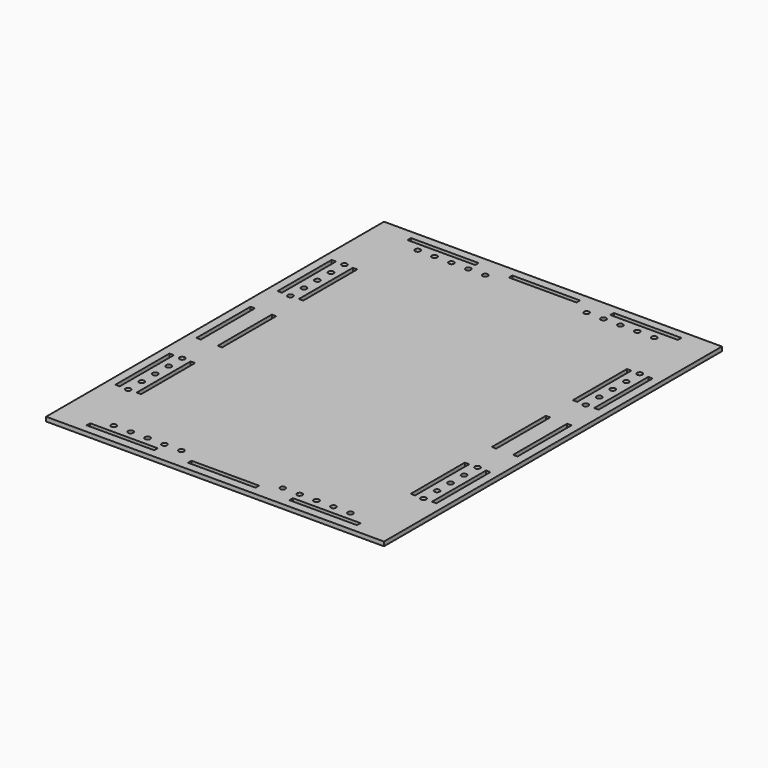
from build123d import *

# Parameters (mm, degrees)
F0_W     = 254
F0_H     = 317.5
F0_R     = 1.984375
F0_W_2   = 50.8
F0_H_2   = 3.302
F0_W_3   = 3.302
F0_H_3   = 50.8
F1_DEPTH = 3.175


with BuildPart() as f1:
    # F0 (on Top) → F1 (new body)
    with BuildSketch(Plane.XY):
        with Locations((3.424784, -8.443636)):
            Rectangle(F0_W, F0_H)
        with Locations((-85.475216, -151.191636)):
            Circle(F0_R, mode=Mode.SUBTRACT)
        with Locations((-72.775216, -159.192636)):
            Rectangle(F0_W_2, F0_H_2, mode=Mode.SUBTRACT)
        with Locations((-72.775216, -151.191636)):
            Circle(F0_R, mode=Mode.SUBTRACT)
        with Locations((-107.573216, -110.043636)):
            Circle(F0_R, mode=Mode.SUBTRACT)
        with Locations((-107.573216, -97.343636)):
            Circle(F0_R, mode=Mode.SUBTRACT)
        with Locations((-60.075216, -151.191636)):
            Circle(F0_R, mode=Mode.SUBTRACT)
        with Locations((-47.375216, -151.191636)):
            Circle(F0_R, mode=Mode.SUBTRACT)
        with Locations((-34.675216, -151.191636)):
            Circle(F0_R, mode=Mode.SUBTRACT)
        with Locations((-115.574216, -84.643636)):
            Rectangle(F0_W_3, F0_H_3, mode=Mode.SUBTRACT)
        with Locations((-107.573216, -84.643636)):
            Circle(F0_R, mode=Mode.SUBTRACT)
        with Locations((-99.572216, -84.643636)):
            Rectangle(F0_W_3, F0_H_3, mode=Mode.SUBTRACT)
        with Locations((-107.573216, -71.943636)):
            Circle(F0_R, mode=Mode.SUBTRACT)
        with Locations((-107.573216, -59.243636)):
            Circle(F0_R, mode=Mode.SUBTRACT)
        with Locations((-115.574216, -8.443636)):
            Rectangle(F0_W_3, F0_H_3, mode=Mode.SUBTRACT)
        with Locations((-99.572216, -8.443636)):
            Rectangle(F0_W_3, F0_H_3, mode=Mode.SUBTRACT)
        with Locations((3.424784, -159.192636)):
            Rectangle(F0_W_2, F0_H_2, mode=Mode.SUBTRACT)
        with Locations((41.524784, -151.191636)):
            Circle(F0_R, mode=Mode.SUBTRACT)
        with Locations((54.224784, -151.191636)):
            Circle(F0_R, mode=Mode.SUBTRACT)
        with Locations((79.624784, -159.192636)):
            Rectangle(F0_W_2, F0_H_2, mode=Mode.SUBTRACT)
        with Locations((66.924784, -151.191636)):
            Circle(F0_R, mode=Mode.SUBTRACT)
        with Locations((79.624784, -151.191636)):
            Circle(F0_R, mode=Mode.SUBTRACT)
        with Locations((92.324784, -151.191636)):
            Circle(F0_R, mode=Mode.SUBTRACT)
        with Locations((114.422784, -110.043636)):
            Circle(F0_R, mode=Mode.SUBTRACT)
        with Locations((114.422784, -97.343636)):
            Circle(F0_R, mode=Mode.SUBTRACT)
        with Locations((106.421784, -84.643636)):
            Rectangle(F0_W_3, F0_H_3, mode=Mode.SUBTRACT)
        with Locations((114.422784, -84.643636)):
            Circle(F0_R, mode=Mode.SUBTRACT)
        with Locations((114.422784, -71.943636)):
            Circle(F0_R, mode=Mode.SUBTRACT)
        with Locations((122.423784, -84.643636)):
            Rectangle(F0_W_3, F0_H_3, mode=Mode.SUBTRACT)
        with Locations((114.422784, -59.243636)):
            Circle(F0_R, mode=Mode.SUBTRACT)
        with Locations((106.421784, -8.443636)):
            Rectangle(F0_W_3, F0_H_3, mode=Mode.SUBTRACT)
        with Locations((-107.573216, 42.356364)):
            Circle(F0_R, mode=Mode.SUBTRACT)
        with Locations((-115.574216, 67.756364)):
            Rectangle(F0_W_3, F0_H_3, mode=Mode.SUBTRACT)
        with Locations((-107.573216, 55.056364)):
            Circle(F0_R, mode=Mode.SUBTRACT)
        with Locations((-107.573216, 67.756364)):
            Circle(F0_R, mode=Mode.SUBTRACT)
        with Locations((-99.572216, 67.756364)):
            Rectangle(F0_W_3, F0_H_3, mode=Mode.SUBTRACT)
        with Locations((-107.573216, 80.456364)):
            Circle(F0_R, mode=Mode.SUBTRACT)
        with Locations((-107.573216, 93.156364)):
            Circle(F0_R, mode=Mode.SUBTRACT)
        with Locations((-85.475216, 134.304364)):
            Circle(F0_R, mode=Mode.SUBTRACT)
        with Locations((-72.775216, 134.304364)):
            Circle(F0_R, mode=Mode.SUBTRACT)
        with Locations((-72.775216, 142.305364)):
            Rectangle(F0_W_2, F0_H_2, mode=Mode.SUBTRACT)
        with Locations((-60.075216, 134.304364)):
            Circle(F0_R, mode=Mode.SUBTRACT)
        with Locations((-47.375216, 134.304364)):
            Circle(F0_R, mode=Mode.SUBTRACT)
        with Locations((-34.675216, 134.304364)):
            Circle(F0_R, mode=Mode.SUBTRACT)
        with Locations((122.423784, -8.443636)):
            Rectangle(F0_W_3, F0_H_3, mode=Mode.SUBTRACT)
        with Locations((114.422784, 42.356364)):
            Circle(F0_R, mode=Mode.SUBTRACT)
        with Locations((114.422784, 55.056364)):
            Circle(F0_R, mode=Mode.SUBTRACT)
        with Locations((106.421784, 67.756364)):
            Rectangle(F0_W_3, F0_H_3, mode=Mode.SUBTRACT)
        with Locations((114.422784, 67.756364)):
            Circle(F0_R, mode=Mode.SUBTRACT)
        with Locations((122.423784, 67.756364)):
            Rectangle(F0_W_3, F0_H_3, mode=Mode.SUBTRACT)
        with Locations((3.424784, 142.305364)):
            Rectangle(F0_W_2, F0_H_2, mode=Mode.SUBTRACT)
        with Locations((41.524784, 134.304364)):
            Circle(F0_R, mode=Mode.SUBTRACT)
        with Locations((54.224784, 134.304364)):
            Circle(F0_R, mode=Mode.SUBTRACT)
        with Locations((66.924784, 134.304364)):
            Circle(F0_R, mode=Mode.SUBTRACT)
        with Locations((114.422784, 80.456364)):
            Circle(F0_R, mode=Mode.SUBTRACT)
        with Locations((114.422784, 93.156364)):
            Circle(F0_R, mode=Mode.SUBTRACT)
        with Locations((79.624784, 134.304364)):
            Circle(F0_R, mode=Mode.SUBTRACT)
        with Locations((79.624784, 142.305364)):
            Rectangle(F0_W_2, F0_H_2, mode=Mode.SUBTRACT)
        with Locations((92.324784, 134.304364)):
            Circle(F0_R, mode=Mode.SUBTRACT)
    extrude(amount=F1_DEPTH)


solid = f1.part
